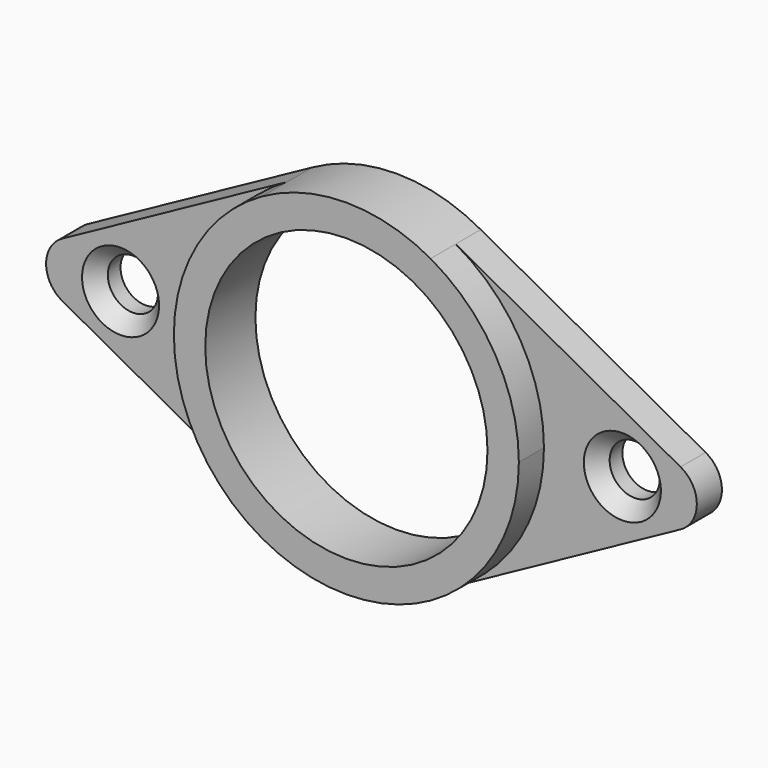
from build123d import *

# Parameters (mm, degrees)
F0_R           = 14.2875
F1_DEPTH       = 3.175
F2_DEPTH       = 6.35
F4_D           = 5.08
F4_CSINK_D     = 7.7978
F4_CSINK_ANGLE = 82


with BuildPart() as f1:
    # F0 (on Front) → F1 (new body)
    with BuildSketch(Plane.XZ):
        with BuildLine():
            ThreePointArc((8.525333, -15.24), (15.063408, -8.833608), (17.4625, 0))
            ThreePointArc((17.4625, 0), (15.063408, 8.833608), (8.525333, 15.24))
            ThreePointArc((8.525333, 15.24), (0, 17.4625), (-8.525333, 15.24))
            ThreePointArc((-8.525333, 15.24), (-17.4625, 0), (-8.525333, -15.24))
            ThreePointArc((-8.525333, -15.24), (0, -17.4625), (8.525333, -15.24))
        make_face()
        Circle(F0_R, mode=Mode.SUBTRACT)
        with BuildLine():
            ThreePointArc((8.525333, 15.24), (15.063408, 8.833608), (17.4625, 0))
            ThreePointArc((17.4625, 0), (15.063408, -8.833608), (8.525333, -15.24))
            Line((8.525333, -15.24), (31.288024, -2.785327))
            ThreePointArc((31.288024, -2.785327), (32.939024, 0), (31.288024, 2.785327))
            Line((31.288024, 2.785327), (8.525333, 15.24))
        make_face()
        with BuildLine():
            ThreePointArc((-8.525333, -15.24), (-17.4625, 0), (-8.525333, 15.24))
            Line((-8.525333, 15.24), (-31.288024, 2.785327))
            ThreePointArc((-31.288024, 2.785327), (-32.939024, 0), (-31.288024, -2.785327))
            Line((-31.288024, -2.785327), (-8.525333, -15.24))
        make_face()
    extrude(amount=F1_DEPTH)

    # F0 (on Front) → F2 (join)
    with BuildSketch(Plane.XZ):
        with BuildLine():
            ThreePointArc((8.525333, -15.24), (15.063408, -8.833608), (17.4625, 0))
            ThreePointArc((17.4625, 0), (15.063408, 8.833608), (8.525333, 15.24))
            ThreePointArc((8.525333, 15.24), (0, 17.4625), (-8.525333, 15.24))
            ThreePointArc((-8.525333, 15.24), (-17.4625, 0), (-8.525333, -15.24))
            ThreePointArc((-8.525333, -15.24), (0, -17.4625), (8.525333, -15.24))
        make_face()
        Circle(F0_R, mode=Mode.SUBTRACT)
    extrude(amount=F2_DEPTH)

    # F4 (through all)
    with Locations(Plane.XZ.offset(3.175)):
        with Locations((-25.4, 0), (25.4, 0)):
            CounterSinkHole(F4_D / 2, F4_CSINK_D / 2, counter_sink_angle=F4_CSINK_ANGLE)


solid = f1.part
